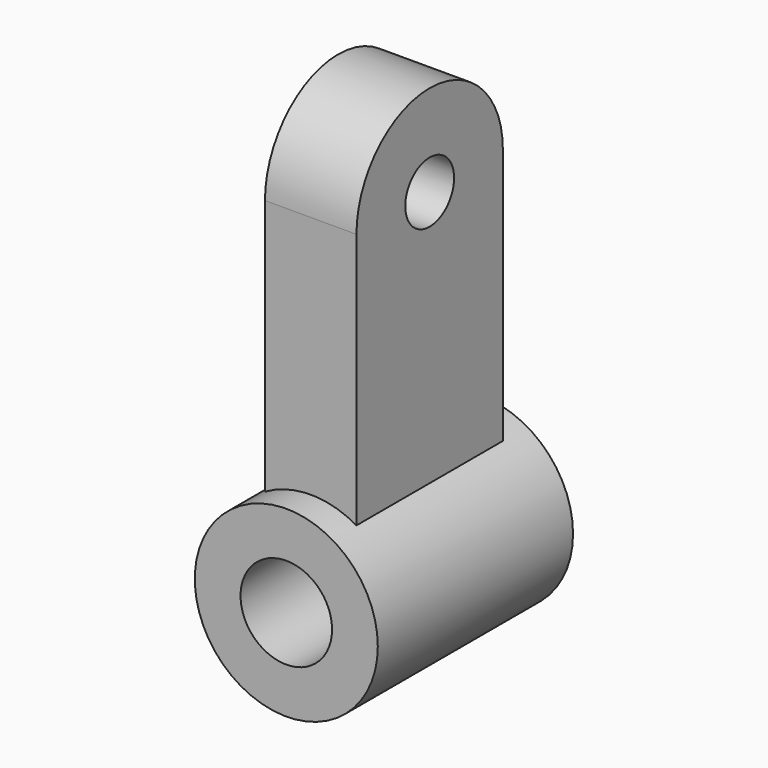
from build123d import *

# Parameters (mm, degrees)
F0_R          = 19.05
F0_R_2        = 9.525
F1_DEPTH      = 25.4
F1_DEPTH_BACK = 25.4
F2_R          = 6.35
F3_DEPTH      = 9.525
F3_DEPTH_BACK = 9.525


with BuildPart() as f1:
    # F0 (on Front) → F1 (new body, two sides)
    with BuildSketch(Plane.XZ) as f1_sk:
        Circle(F0_R)
        Circle(F0_R_2, mode=Mode.SUBTRACT)
    extrude(amount=F1_DEPTH)
    extrude(f1_sk.sketch, amount=-F1_DEPTH_BACK)

    # F2 (on Right) → F3 (join, two sides)
    with BuildSketch(Plane.YZ) as f3_sk:
        with BuildLine():
            Line((-19.05, 69.85), (-19.05, 12.7))
            Line((-19.05, 12.7), (19.05, 12.7))
            Line((19.05, 12.7), (19.05, 69.85))
            ThreePointArc((19.05, 69.85), (0, 88.9), (-19.05, 69.85))
        make_face()
        with Locations((0, 69.85)):
            Circle(F2_R, mode=Mode.SUBTRACT)
    extrude(amount=F3_DEPTH)
    extrude(f3_sk.sketch, amount=-F3_DEPTH_BACK)


solid = f1.part
